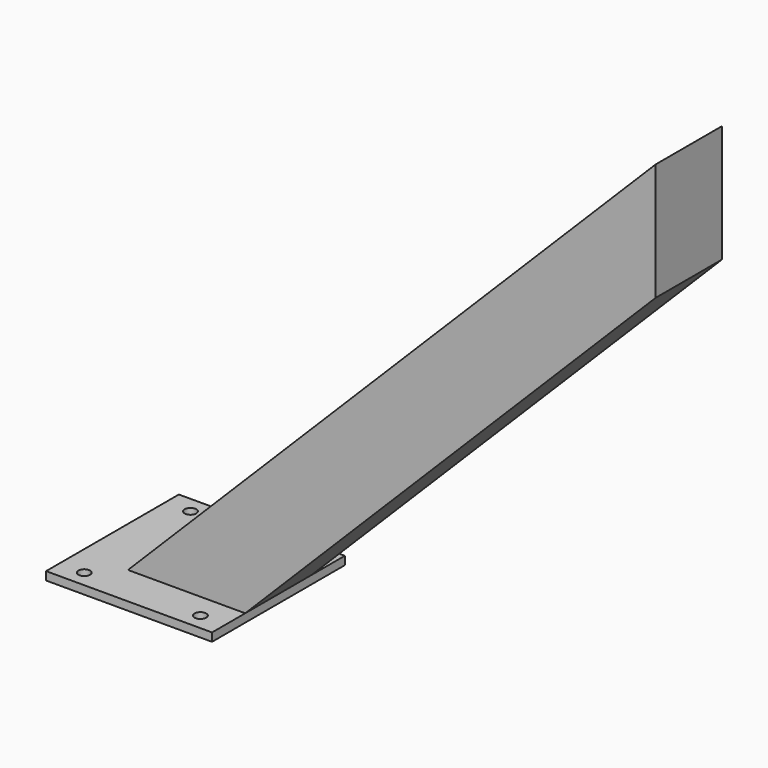
from build123d import *

# Parameters (mm, degrees)
F1_DEPTH = 100
F3_DEPTH = 10
F5_D     = 14
F5_DEPTH = 150


with BuildPart() as f1:
    # F0 (on Front) → F1 (new body)
    with BuildSketch(Plane.XZ):
        Polygon((-70.776085, -70.907202), (-70.776085, 70.645211), (-706.58298, -566.339556), (-565.292317, -566.339556), align=None)
    extrude(amount=F1_DEPTH)

    # F2 (on face) → F3 (join)
    with BuildSketch(Plane(origin=(0, 0, -566.339556), x_dir=(1, 0, 0), z_dir=(0, 0, -1))):
        Polygon((-565.292317, -50), (-565.292317, 100), (-565.292317, 150), (-765.292317, 150), (-765.292317, -50), align=None)
    extrude(amount=F3_DEPTH)

    # F5
    with Locations(Plane(origin=(0, 0, -576.339556), x_dir=(1, 0, 0), z_dir=(0, 0, -1))):
        with Locations((-735.292317, 130), (-595.292317, 130), (-595.292317, -30), (-735.292317, -30)):
            Hole(F5_D / 2, depth=F5_DEPTH)


solid = f1.part
